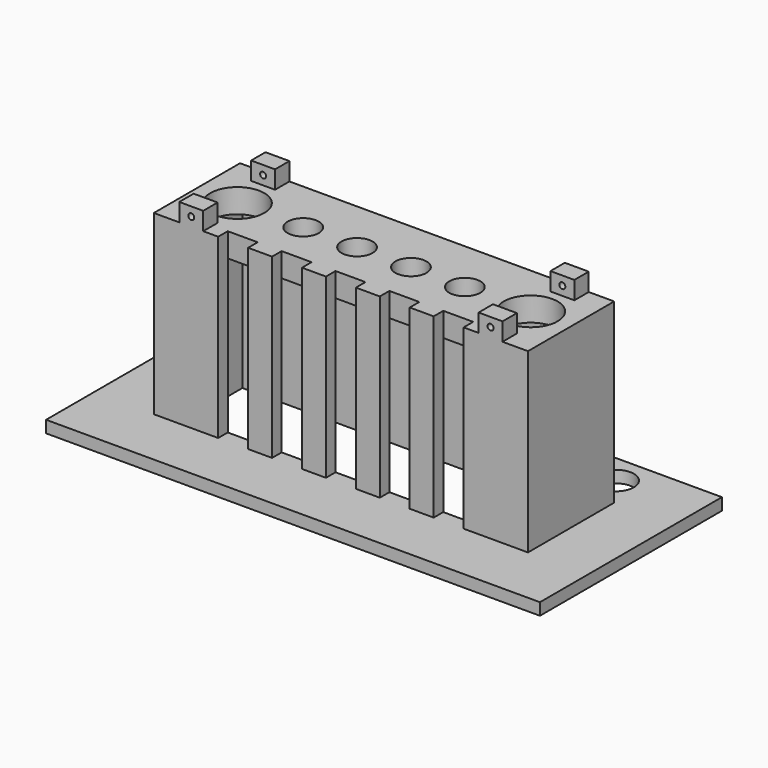
from build123d import *

# Parameters (mm, degrees)
F1_DEPTH = 31.6
F2_START = 27.6
F2_DEPTH = 4
F0_R     = 3.05
F3_DEPTH = 2
F4_W     = 2.5
F4_H     = 29.6
F5_DEPTH = 2
F7_DEPTH = 3
F8_R     = 0.5
F9_DEPTH = 25


with BuildPart() as f1:
    # F0 (on Top) → F1 (new body)
    with BuildSketch(Plane.XY):
        Polygon((31.25, -9), (31.25, 0), (29.25, 0), (29.25, -7), (-29.25, -7), (-29.25, 0), (-31.25, 0), (-31.25, -9), align=None)
        Polygon((31.25, 0), (31.25, 9), (-31.25, 9), (-31.25, 0), (-29.25, 0), (-29.25, 7), (29.25, 7), (29.25, 0), align=None)
    extrude(amount=F1_DEPTH)

    # F0 (on Top) → F2 (join)
    with BuildSketch(Plane.XY.offset(F2_START)):
        with BuildLine():
            Line((29, 0), (29.25, 0))
            Line((29.25, 0), (29.25, 7))
            Line((29.25, 7), (-29.25, 7))
            Line((-29.25, 7), (-29.25, 0))
            Line((-29.25, 0), (-29, 0))
            ThreePointArc((-29, 0), (-24.5, 4.5), (-20, 0))
            Line((-20, 0), (-16.1, 0))
            ThreePointArc((-16.1, 0), (-13.5, 2.6), (-10.9, 0))
            Line((-10.9, 0), (-7.1, 0))
            ThreePointArc((-7.1, 0), (-4.5, 2.6), (-1.9, 0))
            Line((-1.9, 0), (0, 0))
            Line((0, 0), (1.9, 0))
            ThreePointArc((1.9, 0), (4.5, 2.6), (7.1, 0))
            Line((7.1, 0), (10.9, 0))
            ThreePointArc((10.9, 0), (13.5, 2.6), (16.1, 0))
            Line((16.1, 0), (20, 0))
            ThreePointArc((20, 0), (24.5, 4.5), (29, 0))
        make_face()
        with BuildLine():
            Line((29.25, -7), (29.25, 0))
            Line((29.25, 0), (29, 0))
            ThreePointArc((29, 0), (24.5, -4.5), (20, 0))
            Line((20, 0), (16.1, 0))
            ThreePointArc((16.1, 0), (13.5, -2.6), (10.9, 0))
            Line((10.9, 0), (7.1, 0))
            ThreePointArc((7.1, 0), (4.5, -2.6), (1.9, 0))
            Line((1.9, 0), (0, 0))
            Line((0, 0), (-1.9, 0))
            ThreePointArc((-1.9, 0), (-4.5, -2.6), (-7.1, 0))
            Line((-7.1, 0), (-10.9, 0))
            ThreePointArc((-10.9, 0), (-13.5, -2.6), (-16.1, 0))
            Line((-16.1, 0), (-20, 0))
            ThreePointArc((-20, 0), (-24.5, -4.5), (-29, 0))
            Line((-29, 0), (-29.25, 0))
            Line((-29.25, 0), (-29.25, -7))
            Line((-29.25, -7), (29.25, -7))
        make_face()
    extrude(amount=F2_DEPTH)

    # F0 (on Top) → F3 (join)
    with BuildSketch(Plane.XY):
        Polygon((-41.25, 19), (-41.25, 14), (-41.25, -19), (41.25, -19), (41.25, 19), align=None)
        with Locations((-27.5, 14)):
            Circle(F0_R, mode=Mode.SUBTRACT)
        Polygon((-31.25, 9), (31.25, 9), (31.25, 0), (31.25, -9), (-31.25, -9), (-31.25, 0), align=None, mode=Mode.SUBTRACT)
        with Locations((27.5, 14)):
            Circle(F0_R, mode=Mode.SUBTRACT)
    extrude(amount=F3_DEPTH)

    # F4 (on face) → F5 (cut)
    with BuildSketch(Plane.XZ.offset(9)):
        with Locations((-1.25, 16.8)):
            Rectangle(F4_W, F4_H)
        with Locations((1.25, 16.8)):
            Rectangle(F4_W, F4_H)
        with Locations((-19.25, 16.8)):
            Rectangle(F4_W, F4_H)
        with Locations((-16.75, 16.8)):
            Rectangle(F4_W, F4_H)
        with Locations((-10.25, 16.8)):
            Rectangle(F4_W, F4_H)
        with Locations((-7.75, 16.8)):
            Rectangle(F4_W, F4_H)
        with Locations((10.25, 16.8)):
            Rectangle(F4_W, F4_H)
        with Locations((7.75, 16.8)):
            Rectangle(F4_W, F4_H)
        with Locations((16.75, 16.8)):
            Rectangle(F4_W, F4_H)
        with Locations((19.25, 16.8)):
            Rectangle(F4_W, F4_H)
    extrude(amount=-F5_DEPTH, mode=Mode.SUBTRACT)

    # F6 (on face) → F7 (join)
    with BuildSketch(Plane.XY.offset(31.6)):
        Polygon((-27, -6), (-27, -9), (-25, -9), (-23, -9), (-23, -6), (-25, -6), align=None)
        Polygon((23, -6), (23, -9), (25, -9), (27, -9), (27, -6), (25, -6), align=None)
        Polygon((-23, 6), (-23, 9), (-25, 9), (-27, 9), (-27, 6), (-25, 6), align=None)
        Polygon((25, 6), (27, 6), (27, 9), (25, 9), (23, 9), (23, 6), align=None)
    extrude(amount=F7_DEPTH)

    # F8 (on face) → F9 (cut)
    with BuildSketch(Plane.XZ.offset(9)):
        with BuildLine():
            ThreePointArc((-25, 33.6), (-25.3535533906, 32.7464466094), (-24.5, 33.1))
            ThreePointArc((-24.5, 33.1), (-24.6464466094, 33.4535533906), (-25, 33.6))
        make_face()
        with Locations((25, 33.1)):
            Circle(F8_R)
    extrude(amount=-F9_DEPTH, mode=Mode.SUBTRACT)


solid = f1.part
